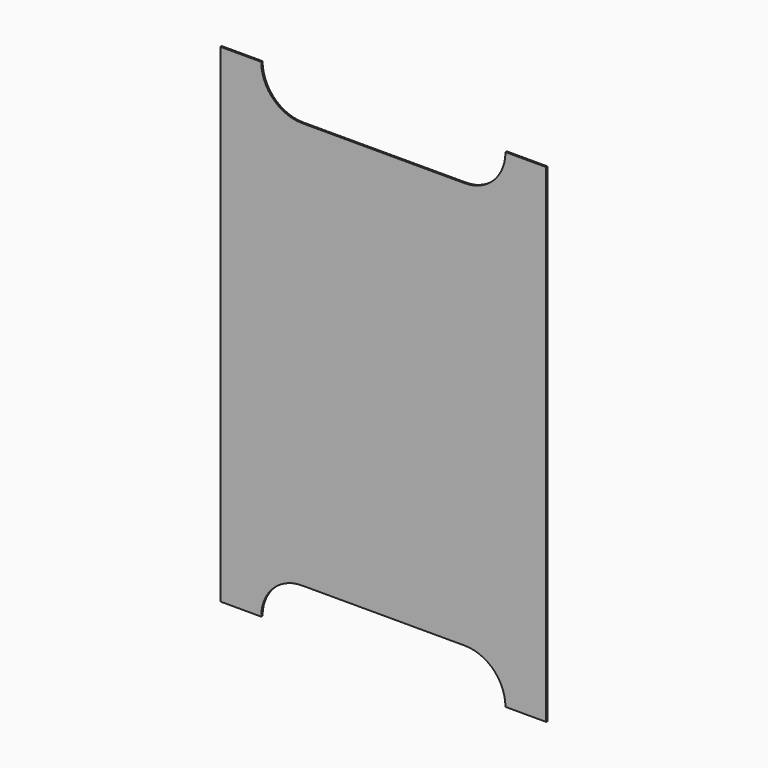
from build123d import *

# Parameters (mm, degrees)
F1_DEPTH = 1


with BuildPart() as f1:
    # F0 (on Front) → F1 (new body, symmetric)
    with BuildSketch(Plane.XZ):
        with BuildLine():
            Line((-150, 300), (-200, 300))
            Line((-200, 300), (-200, -300))
            Line((-200, -300), (-150, -300))
            ThreePointArc((-150, -300), (-135.355339, -264.644661), (-100, -250))
            Line((-100, -250), (100, -250))
            ThreePointArc((100, -250), (135.355339, -264.644661), (150, -300))
            Line((150, -300), (200, -300))
            Line((200, -300), (200, 300))
            Line((200, 300), (150, 300))
            ThreePointArc((150, 300), (135.355339, 264.644661), (100, 250))
            Line((100, 250), (-100, 250))
            ThreePointArc((-100, 250), (-135.355339, 264.644661), (-150, 300))
        make_face()
    extrude(amount=F1_DEPTH, both=True)


solid = f1.part
